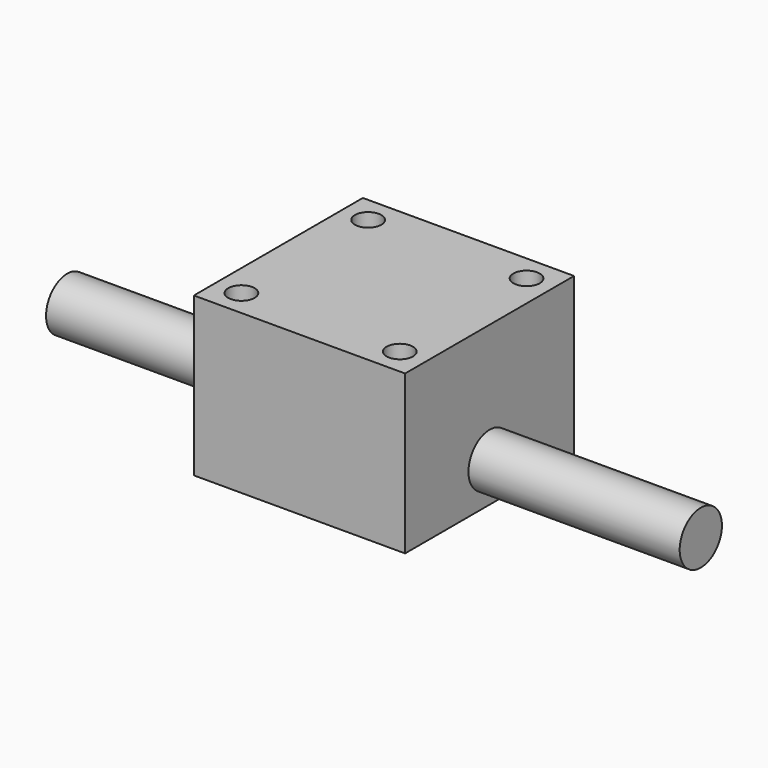
from build123d import *

# Parameters (mm, degrees)
F0_W     = 50.8
F0_H     = 50.8
F0_R     = 3.175
F1_DEPTH = 19.05
F2_R     = 6.35
F3_DEPTH = 76.2


with BuildPart() as f1:
    # F0 (on Top) → F1 (new body, symmetric)
    with BuildSketch(Plane.XY):
        Rectangle(F0_W, F0_H)
        with Locations((-19.05, -19.05)):
            Circle(F0_R, mode=Mode.SUBTRACT)
        with Locations((19.05, -19.05)):
            Circle(F0_R, mode=Mode.SUBTRACT)
        with Locations((-19.05, 19.05)):
            Circle(F0_R, mode=Mode.SUBTRACT)
        with Locations((19.05, 19.05)):
            Circle(F0_R, mode=Mode.SUBTRACT)
    extrude(amount=F1_DEPTH, both=True)

    # F2 (on Right) → F3 (join, symmetric)
    with BuildSketch(Plane.YZ):
        with Locations((0, -9.525)):
            Circle(F2_R)
    extrude(amount=F3_DEPTH, both=True)


solid = f1.part
